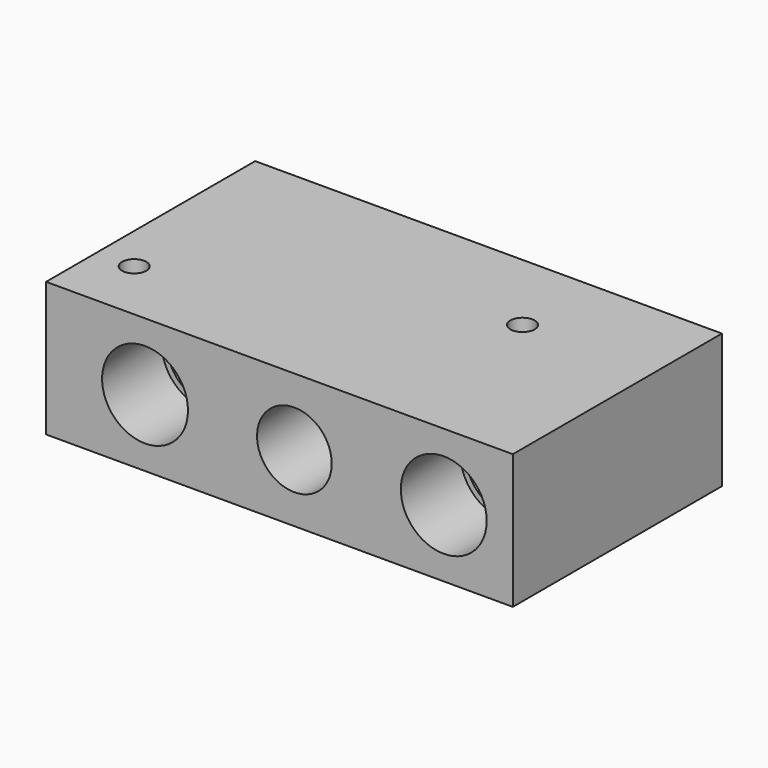
from build123d import *

# Parameters (mm, degrees)
F0_W      = 125
F0_H      = 70
F1_DEPTH  = 36
F2_R      = 10
F3_DEPTH  = 70.001
F4_R      = 11.5
F5_DEPTH  = 20
F6_R      = 11.5
F7_DEPTH  = 20
F8_R      = 3.25
F9_DEPTH  = 36.001
F10_R     = 2
F11_DEPTH = 20


with BuildPart() as f1:
    # F0 (on Top) → F1 (new body)
    with BuildSketch(Plane.XY):
        with Locations((62.5, 35)):
            Rectangle(F0_W, F0_H)
    extrude(amount=F1_DEPTH)

    # F2 (on face) → F3 (cut, through all)
    with BuildSketch(Plane.XZ):
        with Locations((26.5, 18)):
            Circle(F2_R)
        with Locations((66.5, 18)):
            Circle(F2_R)
        with Locations((106.5, 18)):
            Circle(F2_R)
    extrude(amount=-F3_DEPTH, mode=Mode.SUBTRACT)

    # F4 (on face) → F5 (cut)
    with BuildSketch(Plane.XZ):
        with Locations((26.5, 18)):
            Circle(F4_R)
        with Locations((106.5, 18)):
            Circle(F4_R)
    extrude(amount=-F5_DEPTH, mode=Mode.SUBTRACT)

    # F6 (on face) → F7 (cut)
    with BuildSketch(Plane(origin=(0, 70, 0), x_dir=(-1, 0, 0), z_dir=(0, 1, 0))):
        with Locations((-106.5, 18)):
            Circle(F6_R)
        with Locations((-26.5, 18)):
            Circle(F6_R)
    extrude(amount=-F7_DEPTH, mode=Mode.SUBTRACT)

    # F8 (on face) → F9 (cut, through all)
    with BuildSketch(Plane(origin=(0, 0, 0), x_dir=(1, 0, 0), z_dir=(0, 0, -1))):
        with Locations((10, -17)):
            Circle(F8_R)
        with Locations((90, -47)):
            Circle(F8_R)
    extrude(amount=-F9_DEPTH, mode=Mode.SUBTRACT)

    # F10 (on face) → F11 (cut)
    with BuildSketch(Plane(origin=(0, 70, 0), x_dir=(-1, 0, 0), z_dir=(0, 1, 0))):
        with Locations((-85.5, 18)):
            Circle(F10_R)
        with Locations((-47.5, 18)):
            Circle(F10_R)
    extrude(amount=-F11_DEPTH, mode=Mode.SUBTRACT)


solid = f1.part
